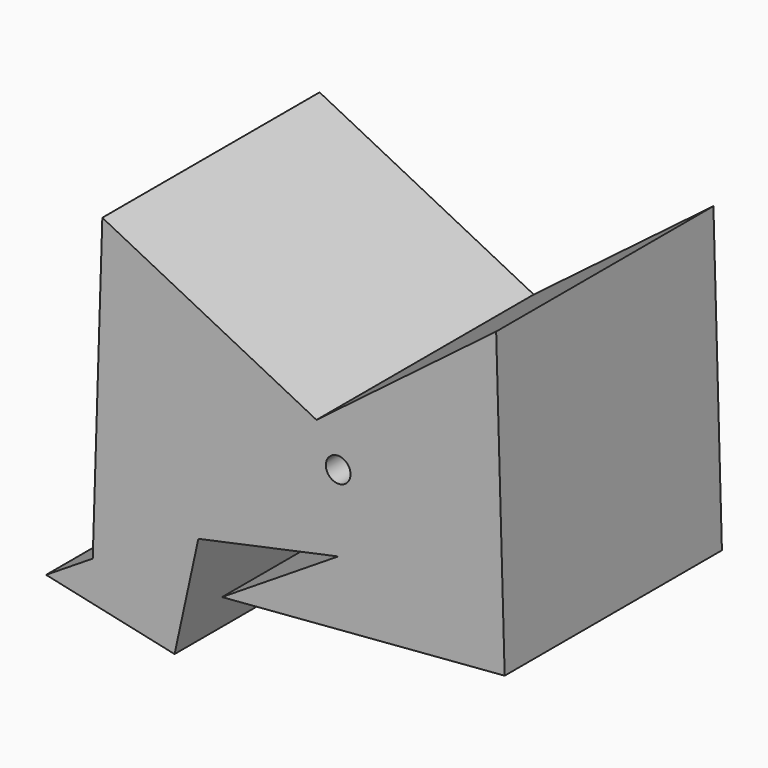
from build123d import *

# Parameters (mm, degrees)
F1_DEPTH = 69.85
F3_D     = 6.35


with BuildPart() as f1:
    # F0 (on Front) → F1 (new body)
    with BuildSketch(Plane.XZ):
        Polygon((-60.661841, 37.338767), (-63.132308, -40.662605), (-75.131821, -48.24443), (-42.083632, -55.441838), (-35.964094, -27.342882), (0, -19.641414), (-29.878315, -38.557932), (42.825591, -32.721233), (40.637106, 44.501927), (-5.579327, 9.46142), align=None)
    extrude(amount=F1_DEPTH)

    # F3 (through all)
    with Locations(Plane(origin=(0, 0, 0), x_dir=(-1, 0, 0), z_dir=(0, 1, 0))):
        with Locations((0, 0)):
            Hole(F3_D / 2)


solid = f1.part
